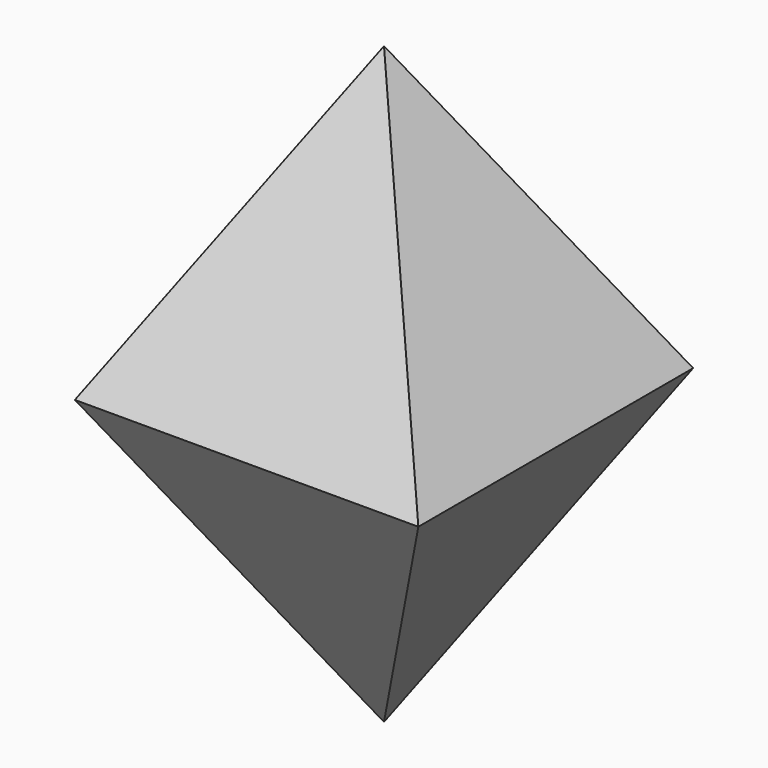
from build123d import *

# Parameters (mm, degrees)
F0_W     = 50
F0_H     = 50
F1_DEPTH = 50
F1_TAPER = 30


with BuildPart() as f1:
    # F0 (on Top) → F1 (new body)
    with BuildSketch(Plane.XY):
        Rectangle(F0_W, F0_H)
    extrude(amount=F1_DEPTH, taper=F1_TAPER)

    # F2: F1 across plane


with BuildPart() as f1_1:
    add(f1.part)
    add(f1.part.mirror(Plane.XY))


solid = f1_1.part
